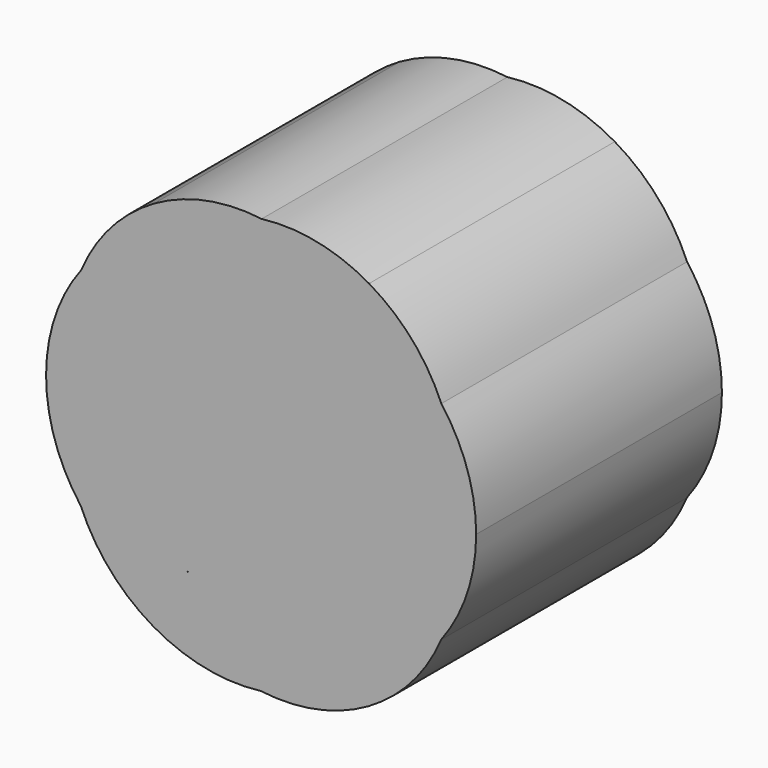
from build123d import *

# Parameters (mm, degrees)
F1_DEPTH = 5


with BuildPart() as f1:
    # F0 (on Front) → F1 (new body)
    with BuildSketch(Plane.XZ):
        with BuildLine():
            ThreePointArc((2.9284925577, -1.6952416251), (3.3532807233, -0.8944925288), (3.5000022854, 0))
            ThreePointArc((3.5000022854, 0), (3.3545234158, 0.8907978968), (2.9332039607, 1.6890302635))
            ThreePointArc((2.9332039607, 1.6890302635), (2.4543229888, 2.4541057707), (1.7569231241, 3.02708129))
            ThreePointArc((1.7569231241, 3.02708129), (0.911557818, 3.3488098949), (0.0077349279, 3.3842496928))
            ThreePointArc((0.0077349279, 3.3842496928), (-0.8962440701, 3.3529410301), (-1.7430739301, 3.0350771447))
            ThreePointArc((-1.7430739301, 3.0350771447), (-2.4443779015, 2.463834501), (-2.9269787428, 1.6988234905))
            ThreePointArc((-2.9269787428, 1.6988234905), (-3.3518540257, 0.9003007329), (-3.4999908731, 0.0079930085))
            ThreePointArc((-3.4999908731, 0.0079930085), (-3.3559323365, -0.8849757575), (-2.9347136707, -1.6854262023))
            ThreePointArc((-2.9347136707, -1.6854262023), (-2.4556145775, -2.4526355181), (-1.7569287516, -3.0270780237))
            ThreePointArc((-1.7569287516, -3.0270780237), (-0.9115610056, -3.3488092441), (-0.0077349279, -3.3842496928))
            ThreePointArc((-0.0077349279, -3.3842496928), (0.8962405431, -3.3529417335), (1.7430676926, -3.0350807269))
            ThreePointArc((1.7430676926, -3.0350807269), (2.4456643837, -2.4623814558), (2.9284925577, -1.6952416251))
        make_face()
        with BuildLine():
            ThreePointArc((-1.1938624273, -2.0623733231), (-1.1951895277, -2.0619527368), (-1.1965164187, -2.0615314908))
            Line((-1.1965164187, -2.0615314908), (-1.1959117105, -2.0604896119))
            ThreePointArc((-1.1959117105, -2.0604896119), (-1.194887303, -2.0614317222), (-1.1938624273, -2.0623733231))
        make_face(mode=Mode.SUBTRACT)
        with BuildLine():
            ThreePointArc((1.5383501674, -2.6715571602), (1.5370201837, -2.6727727973), (1.535689418, -2.6739875782))
            Line((1.535689418, -2.6739875782), (1.5349118756, -2.6726336985))
            ThreePointArc((1.5349118756, -2.6726336985), (1.5366311946, -2.6720959824), (1.5383501674, -2.6715571602))
        make_face(mode=Mode.SUBTRACT)
        with BuildLine():
            Line((-1.1876838413, 2.0680300335), (-1.1870804324, 2.06697936))
            ThreePointArc((-1.1870804324, 2.06697936), (-1.188414568, 2.0665617878), (-1.1897484951, 2.0661435496))
            ThreePointArc((-1.1897484951, 2.0661435496), (-1.1887164037, 2.0670870493), (-1.1876838413, 2.0680300335))
        make_face(mode=Mode.SUBTRACT)
        with BuildLine():
            ThreePointArc((1.5452351584, 2.6693868331), (1.5469586797, 2.6688404788), (1.5486818478, 2.6682930116))
            Line((1.5486818478, 2.6682930116), (1.5478964631, 2.6669398374))
            ThreePointArc((1.5478964631, 2.6669398374), (1.5465662057, 2.6681637648), (1.5452351584, 2.6693868331))
        make_face(mode=Mode.SUBTRACT)
    extrude(amount=F1_DEPTH)


solid = f1.part
